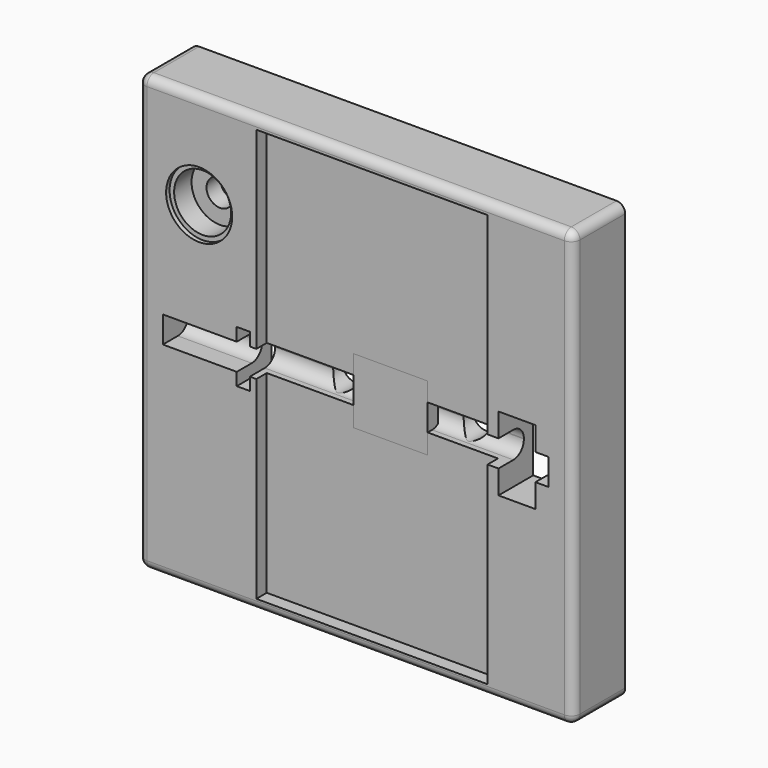
from build123d import *

# Parameters (mm, degrees)
F0_W      = 100
F0_H      = 100
F1_DEPTH  = 15
F2_R      = 2
F3_W      = 88.7
F3_H      = 6.1
F4_DEPTH  = 7.3
F5_R      = 3
F6_R      = 3
F7_DEPTH  = 16
F8_W      = 53.2
F8_H      = 95
F9_DEPTH  = 3
F11_START = -3
F10_W     = 17
F10_H     = 15
F11_DEPTH = 3
F12_W     = 8.5
F12_H     = 17
F13_DEPTH = 16
F14_W     = 3
F14_H     = 12
F15_DEPTH = 16
F16_R     = 3.1
F17_DEPTH = 16
F18_R     = 6.55
F19_DEPTH = 6
F20_R     = 7.6
F21_DEPTH = 1
F23_START = -10
F22_W     = 90
F22_H     = 90
F23_DEPTH = 6
F24_R     = 3


with BuildPart() as f1:
    # F0 (on Front) → F1 (new body)
    with BuildSketch(Plane.XZ):
        Rectangle(F0_W, F0_H)
    extrude(amount=-F1_DEPTH)

    # F2
    f2_edges = [f1.edges().sort_by_distance(p)[0] for p in [
        (-50, 7.5, 50),
        (50, 7.5, 50),
        (0, 0, 50),
        (50, 0, 0),
        (50, 7.5, -50),
        (0, 0, -50),
        (-50, 0, 0),
        (-50, 7.5, -50),
    ]]
    fillet(f2_edges, radius=F2_R)

    # F3 (on Front) → F4 (cut)
    with BuildSketch(Plane.XZ):
        Rectangle(F3_W, F3_H)
    extrude(amount=-F4_DEPTH, mode=Mode.SUBTRACT)

    # F5
    f5_edges = [f1.edges().sort_by_distance(p)[0] for p in [
        (0, 7.3, -3.05),
        (0, 7.3, 3.05),
    ]]
    fillet(f5_edges, radius=F5_R)

    # F6 (on Front) → F7 (cut)
    with BuildSketch(Plane.XZ):
        with Locations((-8, 0)):
            Circle(F6_R)
        with Locations((22, 0)):
            Circle(F6_R)
    extrude(amount=-F7_DEPTH, mode=Mode.SUBTRACT)

    # F8 (on Front) → F9 (cut)
    with BuildSketch(Plane.XZ):
        with Locations((3.75, -0.05)):
            Rectangle(F8_W, F8_H)
    extrude(amount=-F9_DEPTH, mode=Mode.SUBTRACT)

    # F12 (on Front) → F13 (cut)
    with BuildSketch(Plane.XZ):
        with Locations((37.1, 0)):
            Rectangle(F12_W, F12_H)
    extrude(amount=-F13_DEPTH, mode=Mode.SUBTRACT)

    # F14 (on Front) → F15 (cut)
    with BuildSketch(Plane.XZ):
        with Locations((-25.85, 0.05)):
            Rectangle(F14_W, F14_H)
    extrude(amount=-F15_DEPTH, mode=Mode.SUBTRACT)

    # F16 (on Front) → F17 (cut)
    with BuildSketch(Plane.XZ):
        with Locations((-36, 28)):
            Circle(F16_R)
    extrude(amount=-F17_DEPTH, mode=Mode.SUBTRACT)

    # F18 (on Front) → F19 (cut)
    with BuildSketch(Plane.XZ):
        with Locations((-36, 28)):
            Circle(F18_R)
    extrude(amount=-F19_DEPTH, mode=Mode.SUBTRACT)

    # F20 (on Front) → F21 (cut)
    with BuildSketch(Plane.XZ):
        with Locations((-36, 28)):
            Circle(F20_R)
    extrude(amount=-F21_DEPTH, mode=Mode.SUBTRACT)

    # F22 (on Front) → F23 (cut)
    with BuildSketch(Plane.XZ.offset(F23_START)):
        Rectangle(F22_W, F22_H)
    extrude(amount=-F23_DEPTH, mode=Mode.SUBTRACT)

    # F24
    f24_edges = [f1.edges().sort_by_distance(p)[0] for p in [
        (45, 12.5, -45),
        (45, 12.5, 45),
        (-45, 12.5, -45),
        (-45, 12.5, 45),
    ]]
    fillet(f24_edges, radius=F24_R)


with BuildPart() as f11:
    # F10 (on Front) → F11 (new body)
    with BuildSketch(Plane.XZ.offset(F11_START)):
        with Locations((5.65, -0.1290466171)):
            Rectangle(F10_W, F10_H)
    extrude(amount=-F11_DEPTH)


solid = Compound([f1.part, f11.part])
